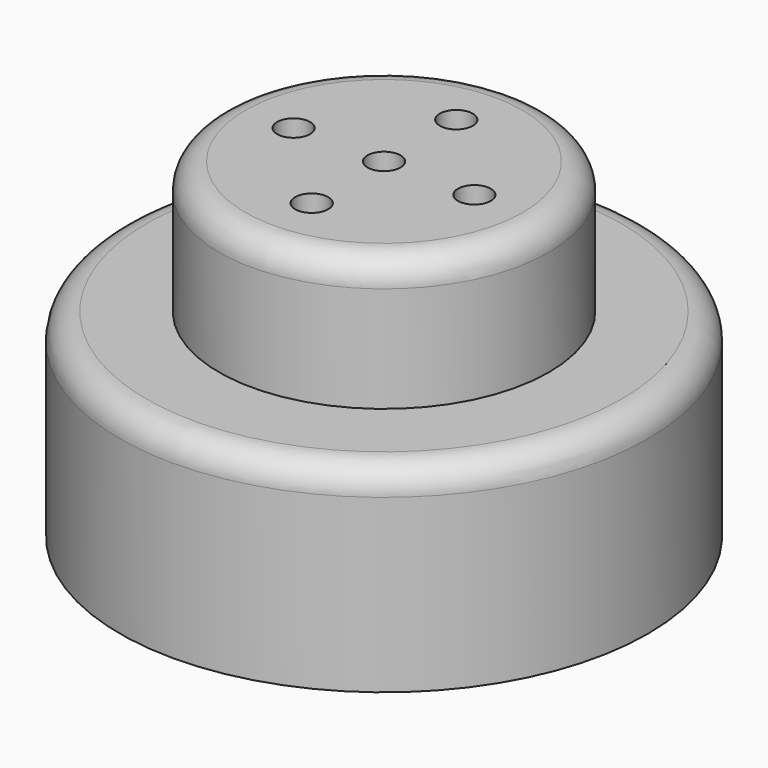
from build123d import *

# Parameters (mm, degrees)
F0_R     = 50.8
F1_DEPTH = 38.1
F2_R     = 31.75
F3_DEPTH = 25.4
F4_R     = 3.175
F5_DEPTH = 6.35
F6_R     = 5.08


with BuildPart() as f1:
    # F0 (on Top) → F1 (new body)
    with BuildSketch(Plane.XY):
        Circle(F0_R)
    extrude(amount=F1_DEPTH)

    # F2 (on face) → F3 (join)
    with BuildSketch(Plane.XY.offset(38.1)):
        Circle(F2_R)
    extrude(amount=F3_DEPTH)

    # F4 (on face) → F5 (cut)
    with BuildSketch(Plane.XY.offset(63.5)):
        with Locations((-17.392001, 0)):
            Circle(F4_R)
        with Locations((0, -17.392001)):
            Circle(F4_R)
        with Locations((17.392001, 0)):
            Circle(F4_R)
        with Locations((0, 17.392001)):
            Circle(F4_R)
        Circle(F4_R)
    extrude(amount=-F5_DEPTH, mode=Mode.SUBTRACT)

    # F6
    f6_edges = [f1.edges().sort_by_distance(p)[0] for p in [
        (-31.75, 0, 63.5),
        (-50.8, 0, 38.1),
    ]]
    fillet(f6_edges, radius=F6_R)


solid = f1.part
